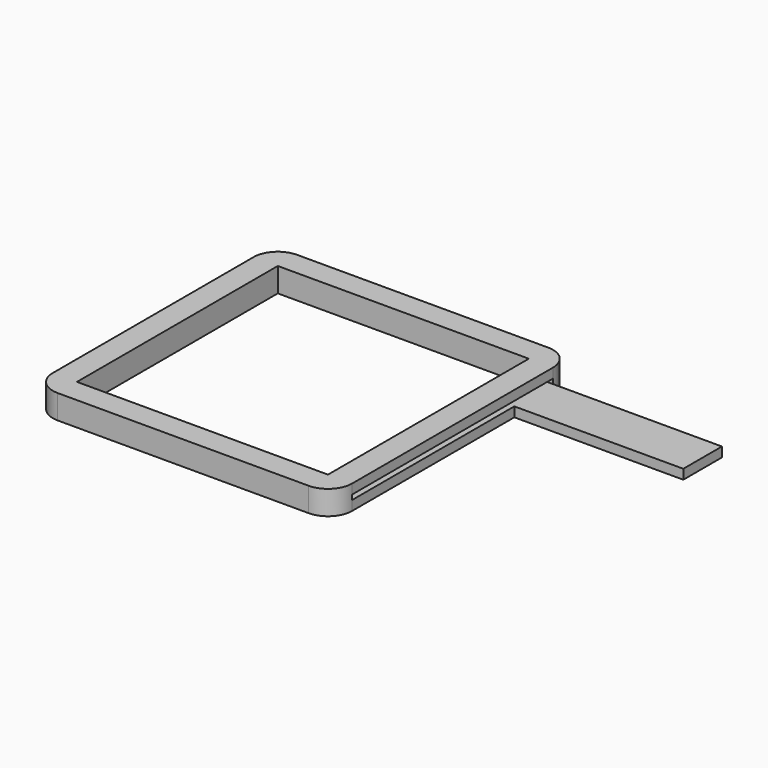
from build123d import *

# Parameters (mm, degrees)
F0_W     = 52
F0_H     = 52
F1_DEPTH = 5
F0_W_2   = 35
F0_H_2   = 10
F2_DEPTH = 2
F4_DEPTH = 5


with BuildPart() as f1:
    # F0 (on Top) → F1 (new body)
    with BuildSketch(Plane.XY):
        with BuildLine():
            Line((57, 0), (5, 0))
            ThreePointArc((5, 0), (1.464466, -1.464466), (0, -5))
            Line((0, -5), (0, -57))
            ThreePointArc((0, -57), (1.464466, -60.535534), (5, -62))
            Line((5, -62), (57, -62))
            ThreePointArc((57, -62), (60.535534, -60.535534), (62, -57))
            Line((62, -57), (62, -15))
            Line((62, -15), (62, -5))
            ThreePointArc((62, -5), (60.535534, -1.464466), (57, 0))
        make_face()
        with Locations((31, -31)):
            Rectangle(F0_W, F0_H, mode=Mode.SUBTRACT)
    extrude(amount=F1_DEPTH)

    # F0 (on Top) → F2 (join)
    with BuildSketch(Plane.XY):
        with Locations((79.5, -10)):
            Rectangle(F0_W_2, F0_H_2)
    extrude(amount=F2_DEPTH)

    # F3 (on face) → F4 (cut, through all)
    with BuildSketch(Plane.YZ.offset(62)):
        Polygon((-15, 2), (-5, 2), (-5, 3), (-57, 3), (-57, 2), align=None)
    extrude(amount=-F4_DEPTH, mode=Mode.SUBTRACT)


solid = f1.part
